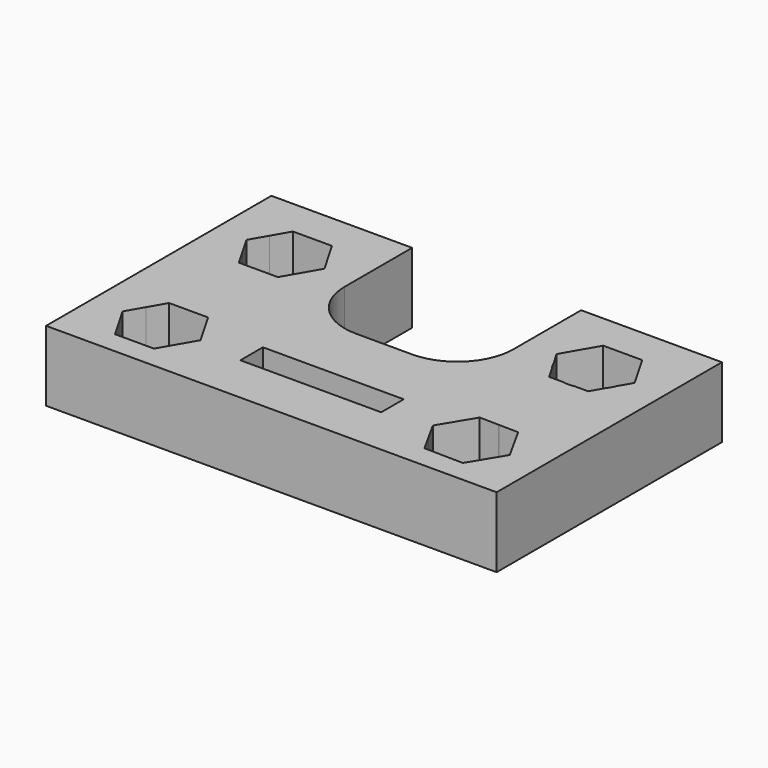
from build123d import *

# Parameters (mm, degrees)
F1_DEPTH = 25


with BuildPart() as f1:
    # F0 (on Top) → F1 (new body)
    with BuildSketch(Plane.XY):
        with BuildLine():
            Line((-70.6391781569, 13), (-70.6391781569, -87))
            Line((-70.6391781569, -87), (-45.6391781569, -87))
            Line((-45.6391781569, -87), (-15.6391781569, -87))
            Line((-15.6391781569, -87), (34.3608218431, -87))
            Line((34.3608218431, -87), (64.3608218431, -87))
            Line((64.3608218431, -87), (89.3608218431, -87))
            Line((89.3608218431, -87), (89.3608218431, 13))
            Line((89.3608218431, 13), (39.3608218431, 13))
            Line((39.3608218431, 13), (39.3608218431, -17))
            ThreePointArc((39.3608218431, -17), (33.5029574669, -31.1421356237), (19.3608218431, -37))
            Line((19.3608218431, -37), (-0.6391781569, -37))
            ThreePointArc((-0.6391781569, -37), (-14.7813137806, -31.1421356237), (-20.6391781569, -17))
            Line((-20.6391781569, -17), (-20.6391781569, 13))
            Line((-20.6391781569, 13), (-70.6391781569, 13))
        make_face()
        Polygon((-38.7109749266, -79), (-45.6391781569, -79), (-52.5673813871, -79), (-56.0314825516, -73.0000007805), (-59.4955846174, -67), (-56.0314827527, -60.9999995677), (-52.5673813871, -55), (-45.6391781569, -55), (-38.7109749266, -55), (-35.2468731114, -61.0000003465), (-31.7827716963, -67), (-35.2468732357, -72.9999998688), align=None, mode=Mode.SUBTRACT)
        Polygon((34.3608218431, -64.5), (34.3608218431, -69.5), (-15.6391781569, -69.5), (-15.6391781569, -59.5), (34.3608218431, -59.5), align=None, mode=Mode.SUBTRACT)
        Polygon((71.0719131449, -79.1227576706), (64.3608218431, -79.0019442848), (64.144831806, -78.9980560219), (57.2177513874, -78.8733543897), (53.8622066759, -72.8119772514), (50.5066600856, -66.7505967192), (54.0781952321, -60.8139196596), (57.6497305414, -54.8772423294), (64.3608218431, -54.9980557152), (64.5768112174, -55.0019439662), (71.5038922989, -55.1266456103), (74.8594372045, -61.1880230993), (78.2149836007, -67.2494032808), (74.643448041, -73.1860810272), align=None, mode=Mode.SUBTRACT)
        Polygon((-38.7109749266, -24), (-45.6391781569, -24), (-52.5673813871, -24), (-56.0314826284, -18.0000006475), (-59.4955846174, -12), (-56.0314826466, -5.9999993839), (-52.5673813871, 0), (-45.6391781569, 0), (-38.7109749266, 0), (-35.2468732357, -6.0000001312), (-31.7827716963, -12), (-35.2468733599, -18.000000084), align=None, mode=Mode.SUBTRACT)
        with BuildLine():
            ThreePointArc((66.5454086438, -23.7994737387), (65.4577072372, -23.9497632793), (64.3608218431, -24))
            ThreePointArc((64.3608218431, -24), (63.2644974406, -23.9498147603), (62.1773429219, -23.7996788007))
            Line((62.1773429219, -23.7996788007), (57.4331819693, -23.7999015188))
            Line((57.4331819693, -23.7999015188), (54.8294798437, -19.2906460406))
            ThreePointArc((54.8294798437, -19.2906460406), (53.9687986836, -18.0004878677), (53.2816989626, -16.6101015387))
            Line((53.2816989626, -16.6101015387), (50.5044153979, -11.8002267816))
            Line((50.5044153979, -11.8002267816), (57.4320552718, 0.2000984547))
            Line((57.4320552718, 0.2000984547), (71.288461717, 0.2007489538))
            Line((71.288461717, 0.2007489538), (78.2172282884, -11.7989257834))
            Line((78.2172282884, -11.7989257834), (75.4403289877, -16.6091779564))
            ThreePointArc((75.4403289877, -16.6091779564), (74.7534083515, -17.9995121191), (73.8929250942, -19.2896507194))
            Line((73.8929250942, -19.2896507194), (71.2895884145, -23.7992510197))
            Line((71.2895884145, -23.7992510197), (66.5454086438, -23.7994737387))
        make_face(mode=Mode.SUBTRACT)
    extrude(amount=F1_DEPTH)


solid = f1.part
